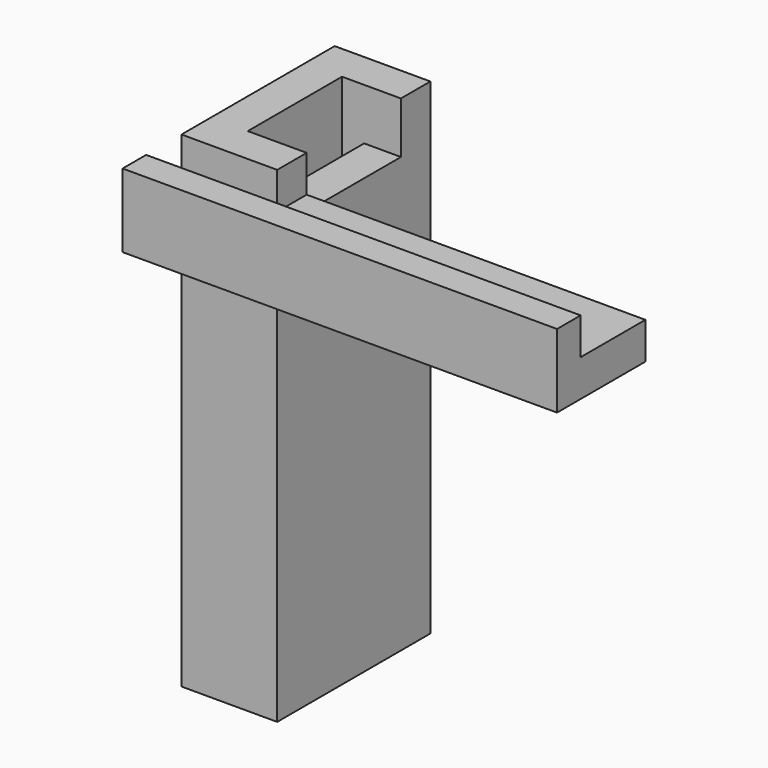
from build123d import *

# Parameters (mm, degrees)
SKETCH001_W             = 13
SKETCH001_H             = 26
SKETCH001_W_2           = 3
SKETCH001_H_2           = 16
PAD001_DEPTH            = 66
BOX_W                   = 16
BOX_H                   = 7
BOX_DEPTH               = 8
BOX001_W                = 15
BOX001_H                = 5
BOX001_DEPTH            = 59
BOX002_W                = 4
BOX002_H                = 5
BOX002_DEPTH            = 59
BODY001_PLACEMENT_ANGLE = 180


with BuildPart() as part:
    # Sketch001 → Pad001 (new body)
    with BuildSketch(Plane.XY):
        with Locations((1, 0)):
            Rectangle(SKETCH001_W, SKETCH001_H)
        with Locations((1, 0)):
            Rectangle(SKETCH001_W_2, SKETCH001_H_2, mode=Mode.SUBTRACT)
    extrude(amount=PAD001_DEPTH)

    # Box → Box (cut)
    with BuildSketch(Plane(origin=(0, -8, 0), x_dir=(0, 1, 0), z_dir=(1, 0, 0))):
        with Locations((8, 3.5)):
            Rectangle(BOX_W, BOX_H)
    extrude(amount=BOX_DEPTH, mode=Mode.SUBTRACT)

    # Box001 → Box001 (join)
    with BuildSketch(Plane(origin=(-5.5, 8, 5), x_dir=(0, 1, 0), z_dir=(1, 0, 0))):
        with Locations((7.5, 2.5)):
            Rectangle(BOX001_W, BOX001_H)
    extrude(amount=BOX001_DEPTH)

    # Box002 → Box002 (join)
    with BuildSketch(Plane(origin=(-5.5, 19, 0), x_dir=(0, 1, 0), z_dir=(1, 0, 0))):
        with Locations((2, 2.5)):
            Rectangle(BOX002_W, BOX002_H)
    extrude(amount=BOX002_DEPTH)


with BuildPart() as part_1:
    # Body001 placement: moved
    add(part.part.rotate(Axis((0, 0, 0), (1, 0, 0)), BODY001_PLACEMENT_ANGLE))


solid = part_1.part
